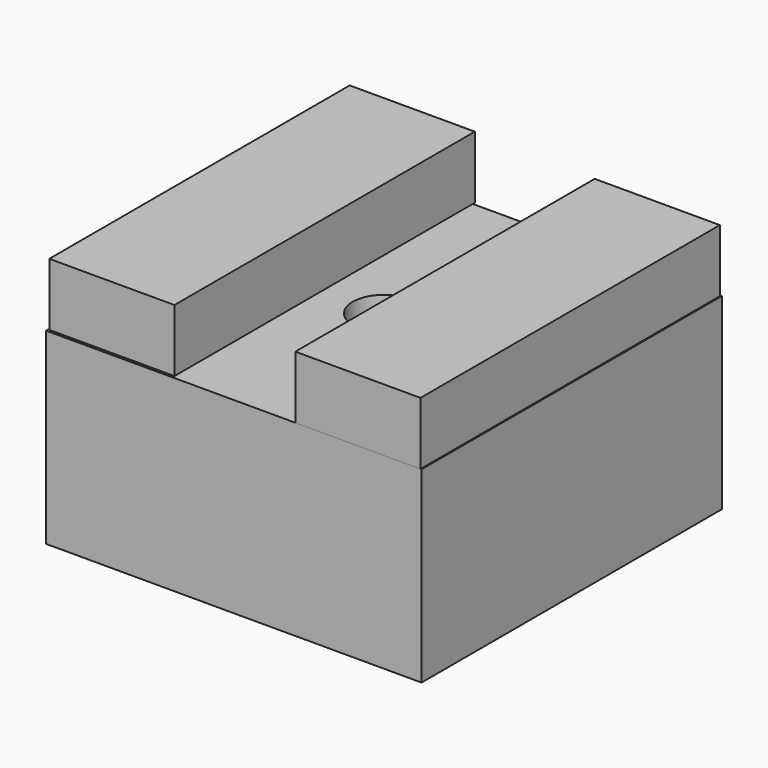
from build123d import *

# Parameters (mm, degrees)
F1_W     = 25.4
F1_H     = 75.941856
F2_DEPTH = 12.7
F3_W     = 25.4
F3_H     = 76.2
F4_DEPTH = 12.7
F0_W     = 76.2
F0_H     = 76.2
F5_DEPTH = 38.1
F7_D     = 12.7


with BuildPart() as f2:
    # F1 (on face) → F2 (new body)
    with BuildSketch(Plane.XY):
        with Locations((25.183017, -0.129072)):
            Rectangle(F1_W, F1_H)
    extrude(amount=F2_DEPTH)


with BuildPart() as f4:
    # F3 (on face) → F4 (new body)
    with BuildSketch(Plane.XY):
        with Locations((-25.172639, 0.527575)):
            Rectangle(F3_W, F3_H)
    extrude(amount=F4_DEPTH)


with BuildPart() as f5:
    # F0 (on Top) → F5 (new body)
    with BuildSketch(Plane.XY):
        Rectangle(F0_W, F0_H)
    extrude(amount=-F5_DEPTH)

    # F7 (through all)
    with Locations(Plane.XY):
        with Locations((0, 0)):
            Hole(F7_D / 2)


solid = Compound([f2.part, f4.part, f5.part])
